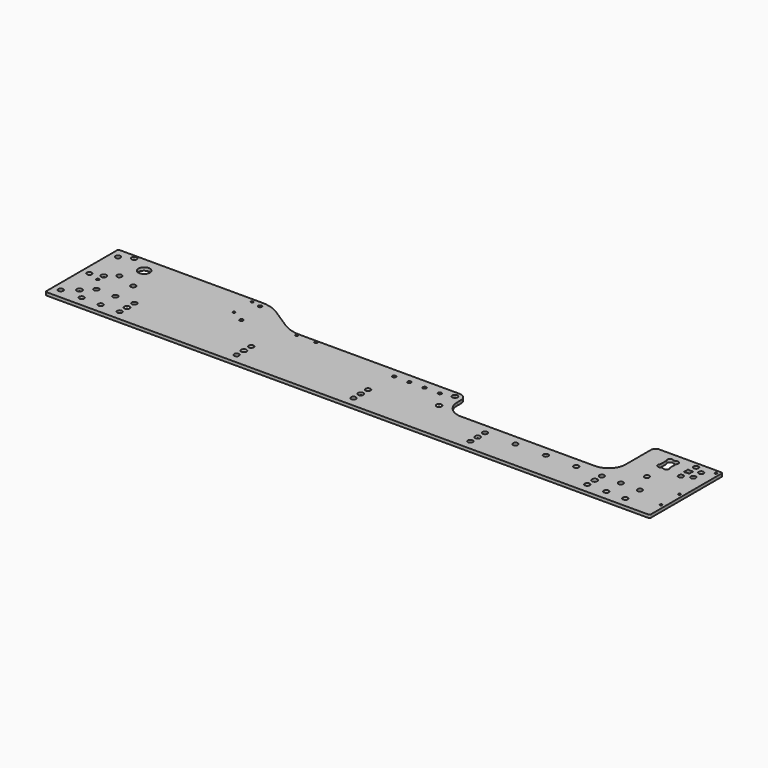
from build123d import *

# Parameters (mm, degrees)
SKETCH_R        = 6.5
SKETCH_R_2      = 3
SKETCH_R_3      = 4.5
SKETCH_R_4      = 3.5
PAD_DEPTH       = 8
CHAMFER_SIZE    = 4
CHAMFER001_SIZE = 2.5


with BuildPart() as part:
    # Sketch → Pad (new body)
    with BuildSketch(Plane.XY):
        with BuildLine():
            Line((223, 0), (576, 0))
            ThreePointArc((576, 0), (607.819805, 13.180195), (621, 45))
            Line((621, 45), (621, 128))
            ThreePointArc((633, 140), (624.514719, 136.485281), (621, 128))
            Line((633, 140), (796, 140))
            ThreePointArc((800, 136), (798.828427, 138.828427), (796, 140))
            Line((800, -96), (800, 136))
            ThreePointArc((796, -100), (798.828427, -98.828427), (800, -96))
            Line((796, -100), (-786, -100))
            ThreePointArc((-790, -96), (-788.828427, -98.828427), (-786, -100))
            Line((-790, 136), (-790, -96))
            ThreePointArc((-786, 140), (-788.828427, 138.828427), (-790, 136))
            Line((-786, 140), (-412, 140))
            ThreePointArc((-362.763287, 125.337548), (-386.313226, 136.256534), (-412, 140))
            Line((-362.763287, 125.337548), (-311.236713, 91.662452))
            ThreePointArc((-311.236713, 91.662452), (-287.686774, 80.743466), (-262, 77))
            Line((-262, 77), (158, 77))
            ThreePointArc((178, 57), (172.142136, 71.142136), (158, 77))
            Line((178, 57), (178, 45))
            ThreePointArc((178, 45), (191.180195, 13.180195), (223, 0))
        make_face()
        with Locations((-715, 50)):
            Circle(SKETCH_R, mode=Mode.SUBTRACT)
        with Locations((-665, 33)):
            Circle(SKETCH_R, mode=Mode.SUBTRACT)
        with Locations((-715, -26)):
            Circle(SKETCH_R, mode=Mode.SUBTRACT)
        with Locations((-307.5, -26)):
            Circle(SKETCH_R, mode=Mode.SUBTRACT)
        with Locations((-307.5, -74)):
            Circle(SKETCH_R, mode=Mode.SUBTRACT)
        with Locations((0, -74)):
            Circle(SKETCH_R, mode=Mode.SUBTRACT)
        with Locations((0, -26)):
            Circle(SKETCH_R, mode=Mode.SUBTRACT)
        with Locations((307.5, -74)):
            Circle(SKETCH_R, mode=Mode.SUBTRACT)
        with Locations((307.5, -26)):
            Circle(SKETCH_R, mode=Mode.SUBTRACT)
        with Locations((715, -26)):
            Circle(SKETCH_R, mode=Mode.SUBTRACT)
        with Locations((715, -74)):
            Circle(SKETCH_R, mode=Mode.SUBTRACT)
        with Locations((307.5, -50)):
            Circle(SKETCH_R_2, mode=Mode.SUBTRACT)
        with Locations((-307.5, -50)):
            Circle(SKETCH_R_2, mode=Mode.SUBTRACT)
        with Locations((-715, -74)):
            Circle(SKETCH_R, mode=Mode.SUBTRACT)
        with Locations((-430, 130)):
            Circle(SKETCH_R_2, mode=Mode.SUBTRACT)
        with Locations((-430, 71)):
            Circle(SKETCH_R_2, mode=Mode.SUBTRACT)
        with Locations((615, -26)):
            Circle(SKETCH_R, mode=Mode.SUBTRACT)
        with Locations((665, -26)):
            Circle(SKETCH_R, mode=Mode.SUBTRACT)
        with Locations((615, -74)):
            Circle(SKETCH_R, mode=Mode.SUBTRACT)
        with Locations((665, -74)):
            Circle(SKETCH_R, mode=Mode.SUBTRACT)
        with Locations((0, -50)):
            Circle(SKETCH_R_2, mode=Mode.SUBTRACT)
        with Locations((790, -50)):
            Circle(SKETCH_R_2, mode=Mode.SUBTRACT)
        with Locations((742, 125)):
            Circle(SKETCH_R, mode=Mode.SUBTRACT)
        with Locations((765, 113)):
            Circle(SKETCH_R, mode=Mode.SUBTRACT)
        with Locations((765, 87)):
            Circle(SKETCH_R, mode=Mode.SUBTRACT)
        with Locations((742, 75)):
            Circle(SKETCH_R, mode=Mode.SUBTRACT)
        with Locations((-665, -74)):
            Circle(SKETCH_R, mode=Mode.SUBTRACT)
        with Locations((-615, -74)):
            Circle(SKETCH_R, mode=Mode.SUBTRACT)
        with Locations((-665, -26)):
            Circle(SKETCH_R, mode=Mode.SUBTRACT)
        with Locations((-615, -26)):
            Circle(SKETCH_R, mode=Mode.SUBTRACT)
        with Locations((-396.782, 53.2)):
            Circle(SKETCH_R_3, mode=Mode.SUBTRACT)
        with Locations((5.218, 53.2)):
            Circle(SKETCH_R_3, mode=Mode.SUBTRACT)
        with Locations((45.218, 53.2)):
            Circle(SKETCH_R_3, mode=Mode.SUBTRACT)
        with Locations((85.218, 53.2)):
            Circle(SKETCH_R_3, mode=Mode.SUBTRACT)
        with Locations((125.218, 53.2)):
            Circle(SKETCH_R_3, mode=Mode.SUBTRACT)
        with Locations((790, 10)):
            Circle(SKETCH_R_2, mode=Mode.SUBTRACT)
        with Locations((790, 130)):
            Circle(SKETCH_R_2, mode=Mode.SUBTRACT)
        with Locations((-740, -50)):
            Circle(SKETCH_R_2, mode=Mode.SUBTRACT)
        with Locations((-740, 10)):
            Circle(SKETCH_R_4, mode=Mode.SUBTRACT)
        with Locations((-740, 130)):
            Circle(SKETCH_R_2, mode=Mode.SUBTRACT)
        with Locations((387.5, -26)):
            Circle(SKETCH_R, mode=Mode.SUBTRACT)
        with Locations((467.5, -26)):
            Circle(SKETCH_R, mode=Mode.SUBTRACT)
        with Locations((547.5, -26)):
            Circle(SKETCH_R, mode=Mode.SUBTRACT)
        with Locations((158, 62)):
            Circle(SKETCH_R_2, mode=Mode.SUBTRACT)
        with Locations((158, 10)):
            Circle(SKETCH_R_2, mode=Mode.SUBTRACT)
        with Locations((-770, -74)):
            Circle(SKETCH_R, mode=Mode.SUBTRACT)
        with Locations((-770, 114)):
            Circle(SKETCH_R, mode=Mode.SUBTRACT)
        with Locations((-740, 30)):
            Circle(SKETCH_R_2, mode=Mode.SUBTRACT)
        with Locations((-770, 20)):
            Circle(SKETCH_R, mode=Mode.SUBTRACT)
        with Locations((-405, 125)):
            Circle(SKETCH_R_3, mode=Mode.SUBTRACT)
        with Locations((688.8, 30)):
            Circle(SKETCH_R, mode=Mode.SUBTRACT)
        with Locations((-265.282, 71)):
            Circle(SKETCH_R_4, mode=Mode.SUBTRACT)
        with Locations((-215.282, 71)):
            Circle(SKETCH_R_4, mode=Mode.SUBTRACT)
        with Locations((615, -50)):
            Circle(SKETCH_R_2, mode=Mode.SUBTRACT)
        with Locations((-615, -50)):
            Circle(SKETCH_R_2, mode=Mode.SUBTRACT)
        with BuildLine():
            ThreePointArc((-690, 85), (-675, 100), (-690, 115))
            ThreePointArc((-690, 115), (-705, 100), (-690, 85))
        make_face(mode=Mode.SUBTRACT)
        with BuildLine():
            Line((688.243823, 120.3), (689.056177, 120.3))
            ThreePointArc((689.056177, 120.3), (690.950364, 120.561153), (692.703215, 121.325126))
            ThreePointArc((702.325126, 111.703215), (701.3, 120.3), (692.703215, 121.325126))
            ThreePointArc((702.325126, 111.703215), (701.561153, 109.950364), (701.3, 108.056177))
            Line((701.3, 108.056177), (701.3, 91.943823))
            ThreePointArc((701.3, 91.943823), (701.561153, 90.049636), (702.325126, 88.296785))
            ThreePointArc((692.703215, 78.674874), (701.3, 79.7), (702.325126, 88.296785))
            ThreePointArc((692.703215, 78.674874), (690.950364, 79.438847), (689.056177, 79.7))
            Line((689.056177, 79.7), (688.243823, 79.7))
            ThreePointArc((688.243823, 79.7), (686.349636, 79.438847), (684.596785, 78.674874))
            ThreePointArc((674.974874, 88.296785), (676, 79.7), (684.596785, 78.674874))
            ThreePointArc((674.974874, 88.296785), (675.738847, 90.049636), (676, 91.943823))
            Line((676, 91.943823), (676, 108.056177))
            ThreePointArc((676, 108.056177), (675.738847, 109.950364), (674.974874, 111.703215))
            ThreePointArc((684.596785, 121.325126), (676, 120.3), (674.974874, 111.703215))
            ThreePointArc((684.596785, 121.325126), (686.349636, 120.561153), (688.243823, 120.3))
        make_face(mode=Mode.SUBTRACT)
        with BuildLine():
            Line((738.898235, 106.2), (745.101765, 106.2))
            ThreePointArc((745.101765, 106.2), (745.642961, 106.274615), (746.143776, 106.492893))
            ThreePointArc((748.892893, 103.743776), (748.6, 106.2), (746.143776, 106.492893))
            ThreePointArc((748.892893, 103.743776), (748.674615, 103.242961), (748.6, 102.701765))
            Line((748.6, 102.701765), (748.6, 97.298235))
            ThreePointArc((748.6, 97.298235), (748.674615, 96.757039), (748.892893, 96.256224))
            ThreePointArc((746.143776, 93.507107), (748.6, 93.8), (748.892893, 96.256224))
            ThreePointArc((746.143776, 93.507107), (745.642961, 93.725385), (745.101765, 93.8))
            Line((745.101765, 93.8), (738.898235, 93.8))
            ThreePointArc((738.898235, 93.8), (738.357039, 93.725385), (737.856224, 93.507107))
            ThreePointArc((735.107107, 96.256224), (735.4, 93.8), (737.856224, 93.507107))
            ThreePointArc((735.107107, 96.256224), (735.325385, 96.757039), (735.4, 97.298235))
            Line((735.4, 97.298235), (735.4, 102.701765))
            ThreePointArc((735.4, 102.701765), (735.325385, 103.242961), (735.107107, 103.743776))
            ThreePointArc((737.856224, 106.492893), (735.4, 106.2), (735.107107, 103.743776))
            ThreePointArc((737.856224, 106.492893), (738.357039, 106.274615), (738.898235, 106.2))
        make_face(mode=Mode.SUBTRACT)
    extrude(amount=PAD_DEPTH)

    # Chamfer
    chamfer_edges = [part.edges().sort_by_distance(p)[0] for p in [
        (612, -50, 8),
        (-310.5, -50, 8),
        (304.5, -50, 8),
        (155, 10, 8),
        (-743, -50, 8),
        (-743, 30, 8),
        (-743, 130, 8),
        (155, 62, 8),
        (-3, -50, 8),
        (-618, -50, 8),
    ]]
    chamfer(chamfer_edges, length=CHAMFER_SIZE)

    # Chamfer001
    chamfer001_edges = [part.edges().sort_by_distance(p)[0] for p in [
        (-743.5, 10, 0),
    ]]
    chamfer(chamfer001_edges, length=CHAMFER001_SIZE)


solid = part.part
